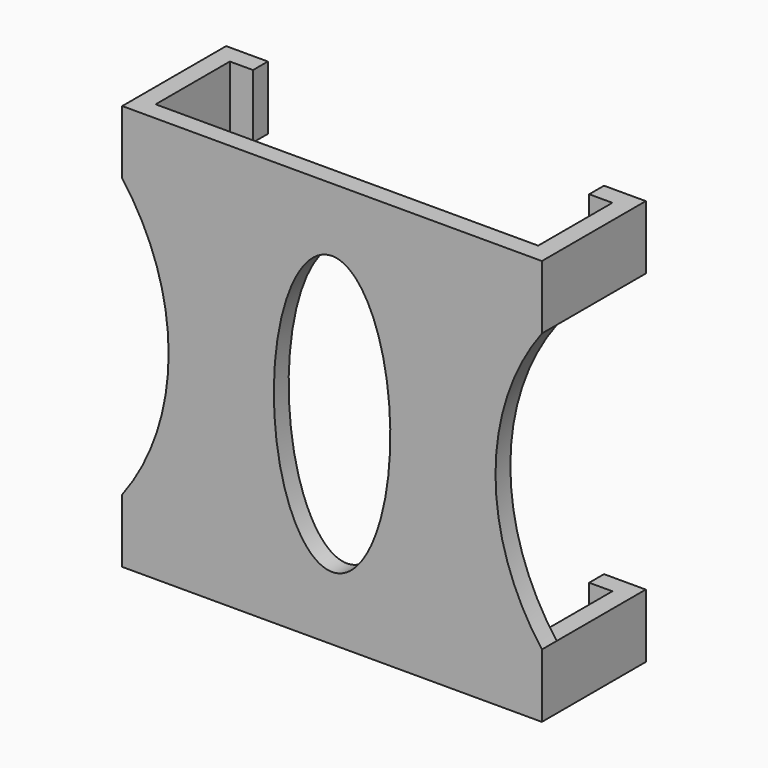
from build123d import *

# Parameters (mm, degrees)
F1_DEPTH = 17.5
F3_DEPTH = 25
F4_W     = 3.6
F4_H     = 24
F5_DEPTH = 9.6


with BuildPart() as f1:
    # F0 (on Top) → F1 (new body, symmetric)
    with BuildSketch(Plane.XY):
        Polygon((-16.5, 0), (-16.5, 8), (-14.5, 8), (-14.5, 9.6), (-18.1, 9.6), (-18.1, -1.6), (18.1, -1.6), (18.1, 9.6), (14.5, 9.6), (14.5, 8), (16.5, 8), (16.5, 0), align=None)
    extrude(amount=F1_DEPTH, both=True)

    # F2 (on face) → F3 (cut)
    with BuildSketch(Plane.XZ.offset(1.6)):
        with BuildLine():
            Line((-18.1, 12), (-18.1, -12))
            ThreePointArc((-18.1, -12), (-14.1, 0), (-18.1, 12))
        make_face()
        with BuildLine():
            Line((18.1, -12), (18.1, 12))
            ThreePointArc((18.1, 12), (14.1, 0), (18.1, -12))
        make_face()
        with BuildLine():
            add(Edge.make_bspline(
                [(0, 12), (-8.70323, 12), (-4.351615, -6), (0, -24), (4.351615, -6), (8.70323, 12), (0, 12)],
                knots=[0, 0, 0, 2.094395, 2.094395, 4.18879, 4.18879, 6.283185, 6.283185, 6.283185], degree=2, weights=[1, 0.5, 1, 0.5, 1, 0.5, 1]))
        make_face()
    extrude(amount=-F3_DEPTH, mode=Mode.SUBTRACT)

    # F4 (on face) → F5 (cut, through all)
    with BuildSketch(Plane(origin=(0, 9.6, 0), x_dir=(-1, 0, 0), z_dir=(0, 1, 0))):
        with Locations((-16.3, 0)):
            Rectangle(F4_W, F4_H)
        with Locations((16.3, 0)):
            Rectangle(F4_W, F4_H)
    extrude(amount=-F5_DEPTH, mode=Mode.SUBTRACT)


solid = f1.part
